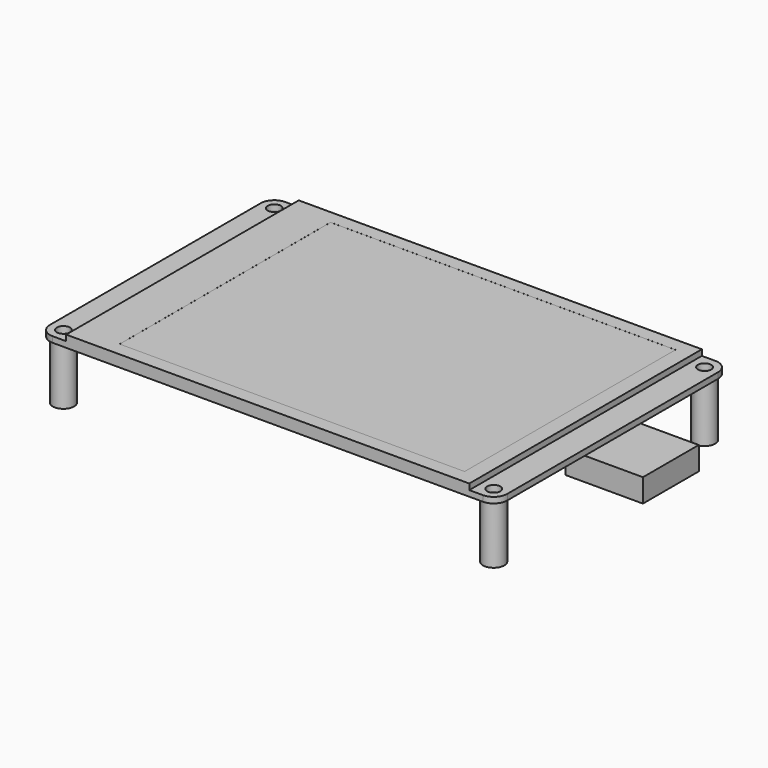
from build123d import *

# Parameters (mm, degrees)
PAD_DEPTH       = 1.5
SKETCH001_R     = 1.7
POCKET_DEPTH    = 1.501
SKETCH002_W     = 104
SKETCH002_H     = 75
PAD001_DEPTH    = 1.5
SKETCH003_W     = 89
SKETCH003_H     = 68
POCKET001_DEPTH = 0.01
SKETCH004_W     = 20
SKETCH004_H     = 18
PAD002_DEPTH    = 6
SKETCH005_R     = 2.75
SKETCH005_R_2   = 1.7
PAD003_DEPTH    = 15


with BuildPart() as part:
    # Sketch → Pad (new body)
    with BuildSketch(Plane.XY):
        with BuildLine():
            Line((3.5, 75), (114.5, 75))
            ThreePointArc((118, 71.5), (116.974874, 73.974874), (114.5, 75))
            Line((118, 71.5), (118, 3.5))
            ThreePointArc((114.5, 0), (116.974874, 1.025126), (118, 3.5))
            Line((114.5, 0), (3.5, 0))
            ThreePointArc((0, 3.5), (1.025126, 1.025126), (3.5, 0))
            Line((0, 3.5), (0, 71.5))
            ThreePointArc((3.5, 75), (1.025126, 73.974874), (0, 71.5))
        make_face()
    extrude(amount=PAD_DEPTH)

    # Sketch001 (on Face10 of Pad) → Pocket (cut, through all)
    with BuildSketch(Plane.XY.offset(1.5)):
        with Locations((3.5, 3.5)):
            Circle(SKETCH001_R)
        with Locations((3.5, 71.5)):
            Circle(SKETCH001_R)
        with Locations((114.5, 71.5)):
            Circle(SKETCH001_R)
        with Locations((114.5, 3.5)):
            Circle(SKETCH001_R)
    extrude(amount=-POCKET_DEPTH, mode=Mode.SUBTRACT)

    # Sketch002 (on Face5 of Pocket) → Pad001 (join)
    with BuildSketch(Plane.XY.offset(1.5)):
        with Locations((59, 37.5)):
            Rectangle(SKETCH002_W, SKETCH002_H)
    extrude(amount=PAD001_DEPTH)

    # Sketch003 (on Face19 of Pad001) → Pocket001 (cut)
    with BuildSketch(Plane.XY.offset(3)):
        with Locations((62.5, 37.5)):
            Rectangle(SKETCH003_W, SKETCH003_H)
    extrude(amount=-POCKET001_DEPTH, mode=Mode.SUBTRACT)

    # Sketch004 (on Face4 of Pocket001) → Pad002 (join)
    with BuildSketch(Plane(origin=(0, 0, 0), x_dir=(1, 0, 0), z_dir=(0, 0, -1))):
        with Locations((123, -37.5)):
            Rectangle(SKETCH004_W, SKETCH004_H)
    extrude(amount=PAD002_DEPTH)

    # Sketch005 (on Face4 of Pad002) → Pad003 (join)
    with BuildSketch(Plane(origin=(0, 0, 0), x_dir=(1, 0, 0), z_dir=(0, 0, -1))):
        with Locations((3.5, -3.5)):
            Circle(SKETCH005_R)
        with Locations((3.5, -3.5)):
            Circle(SKETCH005_R_2, mode=Mode.SUBTRACT)
        with Locations((114.5, -3.5)):
            Circle(SKETCH005_R)
        with Locations((114.5, -3.5)):
            Circle(SKETCH005_R_2, mode=Mode.SUBTRACT)
        with Locations((114.5, -71.5)):
            Circle(SKETCH005_R)
        with Locations((114.5, -71.5)):
            Circle(SKETCH005_R_2, mode=Mode.SUBTRACT)
        with Locations((3.5, -71.5)):
            Circle(SKETCH005_R)
        with Locations((3.5, -71.5)):
            Circle(SKETCH005_R_2, mode=Mode.SUBTRACT)
    extrude(amount=PAD003_DEPTH)


solid = part.part
